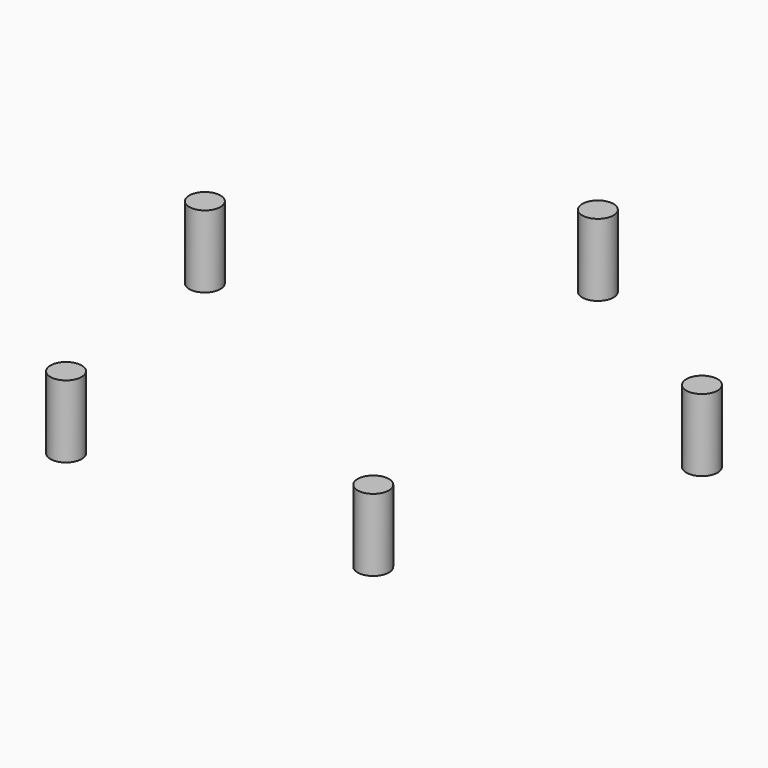
from build123d import *

# Parameters (mm, degrees)
F1_R     = 1.152069
F2_DEPTH = 2.667
F3_COUNT = 5


with BuildPart() as f2:
    # F1 (on Top) → F2 (new body, symmetric)
    with BuildSketch(Plane.XY):
        with Locations((0, 19.281207)):
            Circle(F1_R)
    extrude(amount=F2_DEPTH, both=True)


with BuildPart() as f3_1:
    # F3: instance of F2
    add(f2.part.rotate(Axis((0, 0, 1.187779), (0, 0, -1)), 1 * 360 / F3_COUNT))


with BuildPart() as f3_2:
    # F3: instance of F2
    add(f2.part.rotate(Axis((0, 0, 1.187779), (0, 0, -1)), 2 * 360 / F3_COUNT))


with BuildPart() as f3_3:
    # F3: instance of F2
    add(f2.part.rotate(Axis((0, 0, 1.187779), (0, 0, -1)), 3 * 360 / F3_COUNT))


with BuildPart() as f3_4:
    # F3: instance of F2
    add(f2.part.rotate(Axis((0, 0, 1.187779), (0, 0, -1)), 4 * 360 / F3_COUNT))


solid = Compound([f2.part, f3_1.part, f3_2.part, f3_3.part, f3_4.part])
